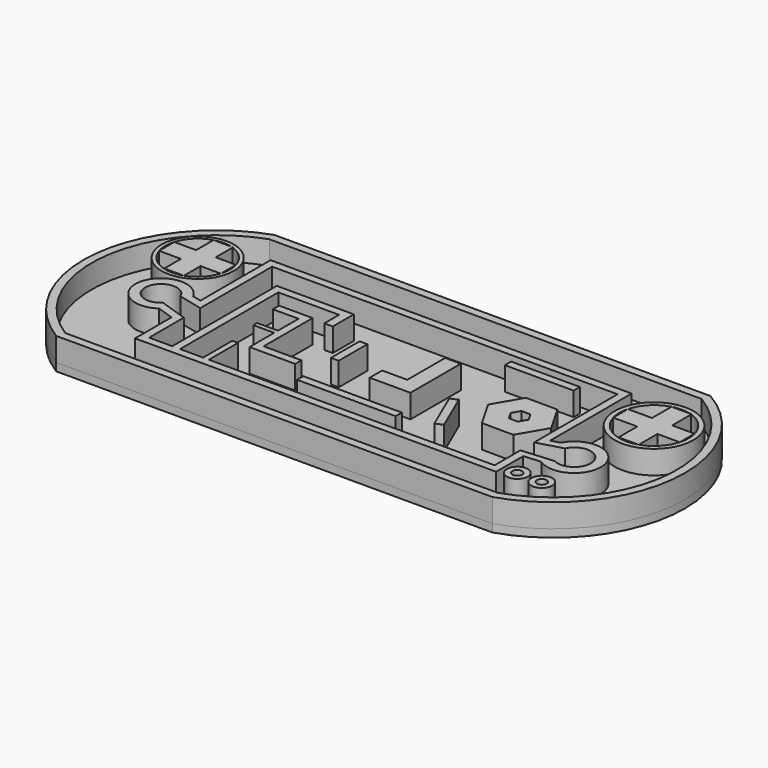
from build123d import *

# Parameters (mm, degrees)
F0_R     = 9.221546
F0_W     = 2
F0_H     = 9.17971
F0_W_2   = 25.23225
F0_H_2   = 2
F0_W_3   = 17.612288
F0_R_2   = 10.080126
F0_R_3   = 2.662862
F0_R_4   = 1.25932
F0_R_5   = 2.663
F0_R_6   = 1.259
F1_DEPTH = 6
F3_DEPTH = 2


with BuildPart() as f1:
    # F0 (on Top) → F1 (new body)
    with BuildSketch(Plane.XY):
        with BuildLine():
            Line((59.203275, 30.697015), (-52.445677, 30.697015))
            ThreePointArc((-52.445677, 30.697015), (-75.3106, 2.144824), (-59.203275, -30.697015))
            Line((-59.203275, -30.697015), (52.445677, -30.697015))
            ThreePointArc((52.445677, -30.697015), (75.850891, -2.204293), (59.203275, 30.697015))
        make_face()
        with BuildLine():
            ThreePointArc((-58.603486, -28.603842), (-73.216754, 2.034064), (-52.091513, 28.603842))
            Line((-52.091513, 28.603842), (58.631942, 28.603842))
            ThreePointArc((58.631942, 28.603842), (73.757121, -2.092843), (52.118627, -28.603842))
            Line((52.118627, -28.603842), (-58.603486, -28.603842))
        make_face(mode=Mode.SUBTRACT)
        with Locations((-58.274889, 13.418862)):
            Circle(F0_R)
        with BuildLine():
            ThreePointArc((-50.355197, 15.784443), (-50.096343, 14.614219), (-50.00945, 13.418862))
            ThreePointArc((-50.00945, 13.418862), (-50.096343, 12.223505), (-50.355197, 11.053282))
            Line((-50.355197, 11.053282), (-50.355197, 10.925333))
            Line((-50.355197, 10.925333), (-50.394547, 10.925333))
            ThreePointArc((-50.394547, 10.925333), (-52.351717, 7.65401), (-55.568827, 5.608951))
            ThreePointArc((-55.568827, 5.608951), (-61.984238, 6.032509), (-66.155231, 10.925333))
            ThreePointArc((-66.155231, 10.925333), (-65.561691, 17.320144), (-60.568827, 21.359601))
            ThreePointArc((-60.568827, 21.359601), (-58.274889, 21.684301), (-55.98095, 21.359601))
            Line((-55.98095, 21.359601), (-55.568827, 21.359601))
            Line((-55.568827, 21.359601), (-55.568827, 21.228774))
            ThreePointArc((-55.568827, 21.228774), (-52.305229, 19.135561), (-50.355197, 15.784443))
        make_face(mode=Mode.SUBTRACT)
        with BuildLine():
            Line((-55.568827, 15.784443), (-55.568827, 21.228774))
            ThreePointArc((-55.568827, 21.228774), (-55.774033, 21.296883), (-55.98095, 21.359601))
            Line((-55.98095, 21.359601), (-60.568827, 21.359601))
            Line((-60.568827, 21.359601), (-60.568827, 15.784443))
            Line((-60.568827, 15.784443), (-58.274889, 13.418862))
            Line((-58.274889, 13.418862), (-55.568827, 15.784443))
        make_face()
        Polygon((-55.568827, 10.925333), (-58.274889, 13.418862), (-60.568827, 10.925333), (-60.568827, 5.608951), (-55.568827, 5.608951), align=None)
        Polygon((-60.568827, 10.925333), (-58.274889, 13.418862), (-60.568827, 15.784443), (-66.155231, 15.784443), (-66.155231, 10.925333), align=None)
        with BuildLine():
            Line((-50.355197, 11.053282), (-50.355197, 15.784443))
            Line((-50.355197, 15.784443), (-55.568827, 15.784443))
            Line((-55.568827, 15.784443), (-58.274889, 13.418862))
            Line((-58.274889, 13.418862), (-55.568827, 10.925333))
            Line((-55.568827, 10.925333), (-50.394547, 10.925333))
            ThreePointArc((-50.394547, 10.925333), (-50.374613, 10.989227), (-50.355197, 11.053282))
        make_face()
        with BuildLine():
            Line((46.230912, 21.684301), (-46.230912, 21.684301))
            Line((-46.230912, 21.684301), (-46.230912, -0.761901))
            Line((-46.230912, -0.761901), (-48.559715, -0.183279))
            ThreePointArc((-48.559715, -0.183279), (-60.712459, -1.711494), (-50.56159, -8.566017))
            Line((-50.56159, -8.566017), (-46.230912, -10.015758))
            Line((-46.230912, -10.015758), (-46.230912, -21.684301))
            Line((-46.230912, -21.684301), (46.230912, -21.684301))
            Line((46.230912, -21.684301), (46.230912, -13.012726))
            Line((46.230912, -13.012726), (50.603963, -12.66764))
            ThreePointArc((50.603963, -12.66764), (61.144533, -5.416616), (48.455043, -3.786341))
            Line((48.455043, -3.786341), (46.230912, -4.421907))
            Line((46.230912, -4.421907), (46.230912, 21.684301))
        make_face()
        with BuildLine():
            ThreePointArc((-51.510783, -6.139175), (-58.321678, -2.377691), (-50.566858, -1.745387))
            Line((-50.566858, -1.745387), (-44.230912, -3.319638))
            Line((-44.230912, -3.319638), (-44.230912, 19.684301))
            Line((-44.230912, 19.684301), (44.230912, 19.684301))
            Line((44.230912, 19.684301), (44.230912, -7.027197))
            Line((44.230912, -7.027197), (50.667065, -5.188005))
            ThreePointArc((50.667065, -5.188005), (58.520469, -5.714323), (52.482387, -10.763534))
            Line((52.482387, -10.763534), (44.230912, -11.414674))
            Line((44.230912, -11.414674), (44.230912, -19.684301))
            Line((44.230912, -19.684301), (-28.933741, -19.684301))
            Line((-28.933741, -19.684301), (-30.395584, -19.684301))
            Line((-30.395584, -19.684301), (-36.308002, -19.684301))
            Line((-36.308002, -19.684301), (-38.308002, -19.684301))
            Line((-38.308002, -19.684301), (-44.230912, -19.684301))
            Line((-44.230912, -19.684301), (-44.230912, -8.576191))
            Line((-44.230912, -8.576191), (-51.510783, -6.139175))
        make_face(mode=Mode.SUBTRACT)
        Polygon((-24.002813, 7.368693), (-32.595631, 7.368693), (-32.595631, 5.368693), (-26.002813, 5.368693), (-26.002813, -1.231665), (-31.35518, -1.231665), (-31.35518, -2.431665), (-26.002813, -2.431665), (-26.002813, -10.316606), (-14.318847, -10.316606), (-14.318847, -8.316606), (-24.002813, -8.316606), align=None)
        Polygon((43.0009, -0.038784), (38.984752, 6.994956), (30.885281, 7.03374), (26.801958, 0.038784), (30.818106, -6.994956), (38.917577, -7.03374), align=None)
        Polygon((33.728766, -2.008836), (32.575394, 0.011138), (33.748057, 2.019974), (36.074092, 2.008836), (37.227464, -0.011138), (36.0548, -2.019974), align=None, mode=Mode.SUBTRACT)
        with Locations((-9.382453, 0.778838)):
            Rectangle(F0_W, F0_H)
        with Locations((2.887357, -14.454821)):
            Rectangle(F0_W_2, F0_H_2)
        Polygon((20.921205, -1.993789), (19.085491, -2.787611), (23.545668, -13.101771), (25.381382, -12.307948), align=None)
        with Locations((27.565426, 16.440073)):
            Rectangle(F0_W_3, F0_H_2)
        with Locations((58.390804, 13.659293)):
            Circle(F0_R_2)
        with BuildLine():
            ThreePointArc((49.842759, 15.969712), (52.113468, 19.904463), (56.036502, 22.195355))
            ThreePointArc((56.036502, 22.195355), (58.390804, 22.514071), (60.745105, 22.195355))
            Line((60.745105, 22.195355), (61.187022, 22.195355))
            Line((61.187022, 22.195355), (61.187022, 22.060975))
            ThreePointArc((61.187022, 22.060975), (65.572969, 18.838443), (67.245582, 13.659293))
            ThreePointArc((67.245582, 13.659293), (67.160773, 12.436703), (66.907973, 11.237532))
            ThreePointArc((66.907973, 11.237532), (64.789089, 7.538096), (61.187022, 5.257611))
            ThreePointArc((61.187022, 5.257611), (54.252908, 5.830825), (49.873634, 11.237532))
            Line((49.873634, 11.237532), (49.842759, 11.237532))
            Line((49.842759, 11.237532), (49.842759, 11.348874))
            ThreePointArc((49.842759, 11.348874), (49.536025, 13.659293), (49.842759, 15.969712))
        make_face(mode=Mode.SUBTRACT)
        with BuildLine():
            Line((60.745105, 22.195355), (56.036502, 22.195355))
            Line((56.036502, 22.195355), (56.036502, 15.969712))
            Line((56.036502, 15.969712), (58.611762, 13.603622))
            Line((58.611762, 13.603622), (61.187022, 15.969712))
            Line((61.187022, 15.969712), (61.187022, 22.060975))
            ThreePointArc((61.187022, 22.060975), (60.96694, 22.131047), (60.745105, 22.195355))
        make_face()
        Polygon((61.187022, 15.969712), (58.611762, 13.603622), (61.187022, 11.237532), (66.907973, 11.237532), (66.907973, 15.969712), align=None)
        with BuildLine():
            Line((56.036502, 15.969712), (49.842759, 15.969712))
            Line((49.842759, 15.969712), (49.842759, 11.348874))
            ThreePointArc((49.842759, 11.348874), (49.858015, 11.293153), (49.873634, 11.237532))
            Line((49.873634, 11.237532), (56.036502, 11.237532))
            Line((56.036502, 11.237532), (58.611762, 13.603622))
            Line((58.611762, 13.603622), (56.036502, 15.969712))
        make_face()
        Polygon((61.187022, 11.237532), (58.611762, 13.603622), (56.036502, 11.237532), (56.036502, 5.257611), (61.187022, 5.257611), align=None)
        with Locations((49.822934, -19.403439)):
            Circle(F0_R_3)
        with Locations((49.822934, -19.403439)):
            Circle(F0_R_4, mode=Mode.SUBTRACT)
        with Locations((56.095056, -19.403439)):
            Circle(F0_R_5)
        with Locations((56.095056, -19.403439)):
            Circle(F0_R_6, mode=Mode.SUBTRACT)
        Polygon((-38.308002, 13.765193), (-38.308002, -19.684301), (-36.308002, -19.684301), (-36.308002, -19.672696), (-36.308002, 11.765193), (-20.746052, 11.765193), (-20.746052, 7.030077), (-18.573044, 7.030077), (-18.573044, 13.765193), (-20.746052, 13.765193), align=None)
        Polygon((-30.395584, -10.337325), (-30.395584, -19.684301), (-28.933741, -19.684301), (-28.933741, -19.672696), (-28.933741, -10.337325), align=None)
        Polygon((11.484839, -5.684367), (11.484839, 10.42243), (7.484839, 10.42243), (7.484839, 10.387363), (7.484839, -1.684367), (1.051139, -1.684367), (1.051139, -5.684367), align=None)
    extrude(amount=F1_DEPTH)


with BuildPart() as f3:
    # F2 (on Top) → F3 (new body)
    with BuildSketch(Plane.XY):
        with BuildLine():
            ThreePointArc((-52.445677, 30.697015), (-75.3106, 2.144824), (-59.203275, -30.697015))
            Line((-59.203275, -30.697015), (52.445677, -30.697015))
            ThreePointArc((52.445677, -30.697015), (75.850891, -2.204293), (59.203275, 30.697015))
            Line((59.203275, 30.697015), (-52.445677, 30.697015))
        make_face()
    extrude(amount=-F3_DEPTH)


solid = Compound([f1.part, f3.part])
